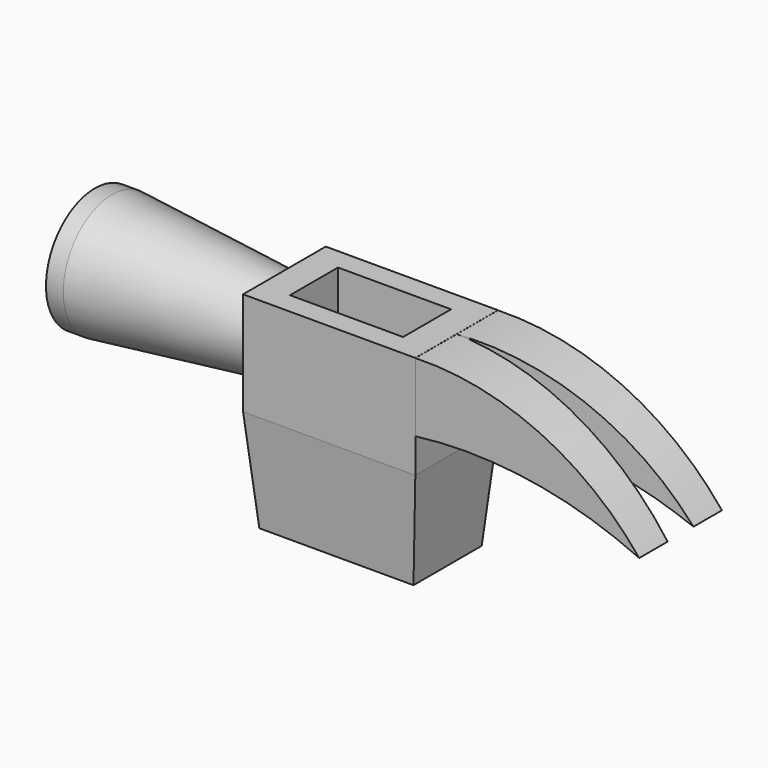
from build123d import *

# Parameters (mm, degrees)
F0_W      = 50
F0_H      = 30
F1_DEPTH  = 15
F1_FACE_W = 50
F1_FACE_H = 30
F2_DEPTH  = 30
F2_TAPER  = 5
F3_R      = 12.5
F4_DEPTH  = 50
F4_TAPER  = -6
F6_DEPTH  = 15
F7_DEPTH  = 5
F9_DEPTH  = 30
F10_W     = 32.8289911151
F10_H     = 17.4164976925
F11_DEPTH = 25


with BuildPart() as f1:
    # F0 (on Front) → F1 (new body, symmetric)
    with BuildSketch(Plane.XZ):
        with Locations((25, 15)):
            Rectangle(F0_W, F0_H)
    extrude(amount=F1_DEPTH, both=True)

    # F1_face (on face) → F2 (join)
    with BuildSketch(Plane(origin=(25, 0, 0), x_dir=(1, 0, 0), z_dir=(0, 0, -1))):
        Rectangle(F1_FACE_W, F1_FACE_H)
    extrude(amount=F2_DEPTH, taper=F2_TAPER)

    # F3 (on Right) → F4 (join)
    with BuildSketch(Plane.YZ):
        with Locations((0, 15.3663739569)):
            Circle(F3_R)
    extrude(amount=-F4_DEPTH, taper=F4_TAPER)

    # F7 (add): a face of the model
    f7_faces = [f1.faces().sort_by_distance(p)[0] for p in [
        (-50, 0, 15.3663739569),
    ]]
    extrude(f7_faces, amount=F7_DEPTH)

    # F10 (on face) → F11 (cut)
    with BuildSketch(Plane.XY.offset(30)):
        with Locations((25, 0)):
            Rectangle(F10_W, F10_H)
    extrude(amount=-F11_DEPTH, mode=Mode.SUBTRACT)


with BuildPart() as f6:
    # F5 (on Front) → F6 (new body, symmetric)
    with BuildSketch(Plane.XZ):
        with BuildLine():
            ThreePointArc((50.0052720308, 9.9999997765), (83.1975081998, 9.5163028491), (115, 0))
            ThreePointArc((115, 0), (86.0267220337, 22.6293864629), (50.0052720308, 29.9775227904))
            Line((50.0052720308, 29.9775227904), (50.0052720308, 9.9999997765))
        make_face()
    extrude(amount=F6_DEPTH, both=True)

    # F8 (on Top) → F9 (cut, symmetric)
    with BuildSketch(Plane.XY):
        Polygon((119.2383021116, 4.9999998882), (50.0376261771, -5.59e-08), (119.2383021116, -5), align=None)
    extrude(amount=F9_DEPTH, both=True, mode=Mode.SUBTRACT)


solid = Compound([f1.part, f6.part])
